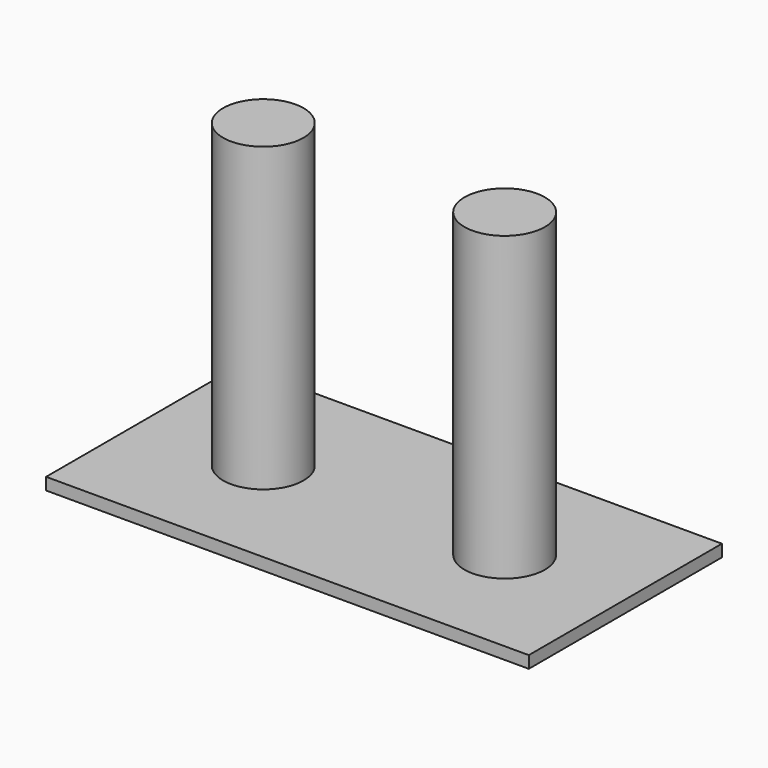
from build123d import *

# Parameters (mm, degrees)
F0_W     = 120
F0_H     = 60
F0_R     = 10
F1_DEPTH = 3
F2_DEPTH = 75


with BuildPart() as f1:
    # F0 (on Top) → F1 (new body)
    with BuildSketch(Plane.XY):
        with Locations((-30, 0)):
            Rectangle(F0_W, F0_H)
        with Locations((-60, 0)):
            Circle(F0_R, mode=Mode.SUBTRACT)
        Circle(F0_R, mode=Mode.SUBTRACT)
        with Locations((-60, 0)):
            Circle(F0_R)
        Circle(F0_R)
    extrude(amount=-F1_DEPTH)

    # F0 (on Top) → F2 (join)
    with BuildSketch(Plane.XY):
        with Locations((-60, 0)):
            Circle(F0_R)
        Circle(F0_R)
    extrude(amount=F2_DEPTH)


solid = f1.part
